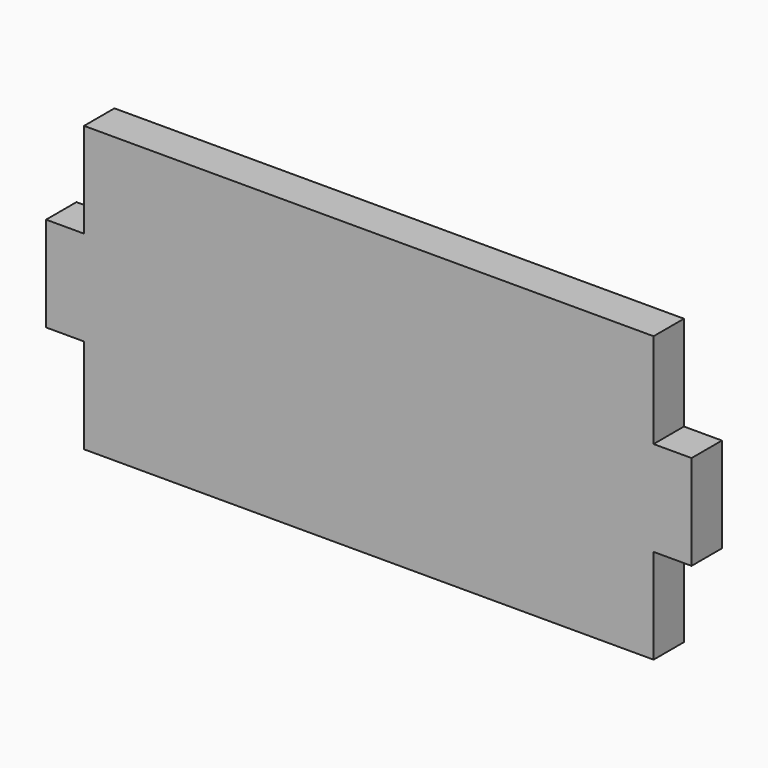
from build123d import *

# Parameters (mm, degrees)
F0_W     = 12
F0_H     = 30
F1_DEPTH = 6


with BuildPart() as f1:
    # F0 (on Front) → F1 (new body, symmetric)
    with BuildSketch(Plane.XZ):
        Polygon((0, 30), (0, 0), (90, 0), (180, 0), (180, 30), (180, 60), (180, 90), (90, 90), (0, 90), (0, 60), align=None)
        with Locations((-6, 45)):
            Rectangle(F0_W, F0_H)
        with Locations((186, 45)):
            Rectangle(F0_W, F0_H)
    extrude(amount=F1_DEPTH, both=True)


solid = f1.part
